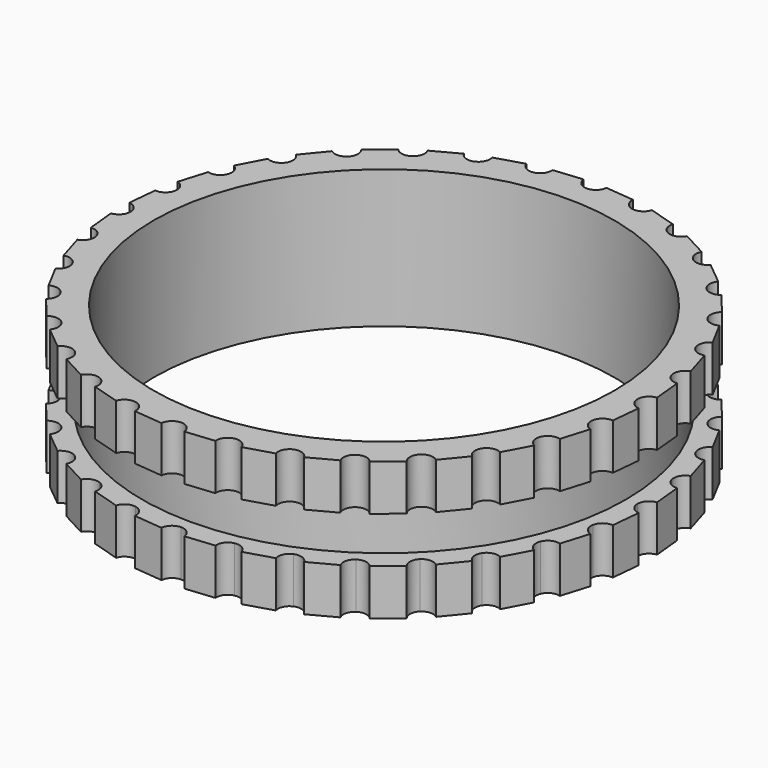
from build123d import *

# Parameters (mm, degrees)
F0_R      = 52.5
F1_DEPTH  = 10
F0_R_2    = 50
F2_DEPTH  = 30
F3_START  = 10
F1_FACE_R = 52.5
F3_DEPTH  = 10


with BuildPart() as f1:
    # F0 (on Top) → F1 (new body)
    with BuildSketch(Plane.XY):
        with BuildLine():
            ThreePointArc((53.9431904426, -10.729967608), (54.7351599721, -5.3909426659), (55, 0))
            ThreePointArc((55, 0), (54.735159954, 5.3909428496), (53.9431903706, 10.7299679701))
            ThreePointArc((53.9431903706, 10.7299679701), (52.6317184315, 15.9656573605), (50.8133743001, 21.0475887512))
            ThreePointArc((50.8133743001, 21.0475887512), (48.5056695344, 25.9268205343), (45.7308286481, 30.5563628588))
            ThreePointArc((45.7308286481, 30.5563628588), (42.5155748954, 34.8916306772), (38.8908729134, 38.8908730171))
            ThreePointArc((38.8908729134, 38.8908730171), (34.8916305615, 42.5155749904), (30.5563627318, 45.730828733))
            ThreePointArc((30.5563627318, 45.730828733), (25.9268204669, 48.5056695704), (21.0475887512, 50.8133743001))
            ThreePointArc((21.0475887512, 50.8133743001), (15.9656572029, 52.6317184793), (10.7299676471, 53.9431904349))
            ThreePointArc((10.7299676471, 53.9431904349), (5.3909426791, 54.7351599708), (-1.33e-08, 55))
            ThreePointArc((-1.33e-08, 55), (-5.390942792, 54.7351599597), (-10.7299678433, 53.9431903958))
            ThreePointArc((-10.7299678433, 53.9431903958), (-15.9656573064, 52.6317184479), (-21.0475887661, 50.8133742939))
            ThreePointArc((-21.0475887661, 50.8133742939), (-25.9268205052, 48.50566955), (-30.5563627905, 45.7308286937))
            ThreePointArc((-30.5563627905, 45.7308286937), (-34.8916306171, 42.5155749447), (-38.8908729653, 38.8908729653))
            ThreePointArc((-38.8908729653, 38.8908729653), (-42.5155749104, 34.8916306589), (-45.7308286337, 30.5563628803))
            ThreePointArc((-45.7308286337, 30.5563628803), (-48.5056695222, 25.9268205572), (-50.8133742901, 21.0475887753))
            ThreePointArc((-50.8133742901, 21.0475887753), (-52.6317184495, 15.965657301), (-53.9431904, 10.7299678226))
            ThreePointArc((-53.9431904, 10.7299678226), (-54.7351599614, 5.3909427748), (-55, 0))
            ThreePointArc((-55, 0), (-54.7351599769, -5.3909426178), (-53.9431904615, -10.7299675131))
            ThreePointArc((-53.9431904615, -10.7299675131), (-52.6317185305, -15.9656570341), (-50.8133743828, -21.0475885515))
            ThreePointArc((-50.8133743828, -21.0475885515), (-48.5056696434, -25.9268203304), (-45.7308287849, -30.5563626541))
            ThreePointArc((-45.7308287849, -30.5563626541), (-42.5155749833, -34.89163057), (-38.8908729354, -38.8908729951))
            ThreePointArc((-38.8908729354, -38.8908729951), (-34.8916306387, -42.515574927), (-30.556362872, -45.7308286393))
            ThreePointArc((-30.556362872, -45.7308286393), (-25.9268206274, -48.5056694847), (-21.0475889316, -50.8133742254))
            ThreePointArc((-21.0475889316, -50.8133742254), (-15.9656573974, -52.6317184203), (-10.7299678542, -53.9431903937))
            ThreePointArc((-10.7299678542, -53.9431903937), (-5.3909428402, -54.735159955), (-9.92e-08, -55))
            ThreePointArc((-9.92e-08, -55), (5.3909427125, -54.7351599675), (10.729967797, -53.9431904051))
            ThreePointArc((10.729967797, -53.9431904051), (15.9656573819, -52.6317184249), (21.0475889557, -50.8133742154))
            ThreePointArc((21.0475889557, -50.8133742154), (25.9268205116, -48.5056695466), (30.5563626319, -45.7308287997))
            ThreePointArc((30.5563626319, -45.7308287997), (34.8916305761, -42.5155749784), (38.8908730251, -38.8908729054))
            ThreePointArc((38.8908730251, -38.8908729054), (42.5155749025, -34.8916306685), (45.7308285728, -30.5563629714))
            ThreePointArc((45.7308285728, -30.5563629714), (48.5056694342, -25.9268207218), (50.8133741892, -21.0475890189))
            ThreePointArc((50.8133741892, -21.0475890189), (52.631718443, -15.9656573225), (53.9431904426, -10.729967608))
        make_face()
        Circle(F0_R, mode=Mode.SUBTRACT)
        with BuildLine():
            ThreePointArc((53.9431903706, 10.7299679701), (54.735159954, 5.3909428496), (55, 0))
            ThreePointArc((55, 0), (55.6476221866, 1.6788973871), (57.2549571492, 2.4879618167))
            Line((57.2549571492, 2.4879618167), (56.640196474, 8.7297316992))
            ThreePointArc((56.640196474, 8.7297316992), (54.9059052558, 9.2096747659), (53.9431903706, 10.7299679701))
        make_face()
        with BuildLine():
            ThreePointArc((50.8133743001, 21.0475887512), (52.6317184315, 15.9656573605), (53.9431903706, 10.7299679701))
            ThreePointArc((53.9431903706, 10.7299679701), (54.2508321661, 12.5029504898), (55.66944193, 13.6100443553))
            Line((55.66944193, 13.6100443553), (53.8487848125, 19.6119465217))
            ThreePointArc((53.8487848125, 19.6119465217), (52.0541854, 19.7443241215), (50.8133743001, 21.0475887512))
        make_face()
        with BuildLine():
            ThreePointArc((45.7308286481, 30.5563628588), (48.5056695344, 25.9268205343), (50.8133743001, 21.0475887512))
            ThreePointArc((50.8133743001, 21.0475887512), (50.7692129512, 22.8465219797), (51.9445812773, 24.2091005219))
            Line((51.9445812773, 24.2091005219), (48.9879945495, 29.7404852378))
            ThreePointArc((48.9879945495, 29.7404852378), (47.2020522327, 29.5202102719), (45.7308286481, 30.5563628588))
        make_face()
        with BuildLine():
            ThreePointArc((38.8908729134, 38.8908730171), (42.5155748954, 34.8916306772), (45.7308286481, 30.5563628588))
            ThreePointArc((45.7308286481, 30.5563628588), (45.3365614363, 32.3121146102), (46.223519497, 33.877814532))
            Line((46.223519497, 33.877814532), (42.2446231286, 38.7261137848))
            ThreePointArc((42.2446231286, 38.7261137848), (40.5359706958, 38.1616512795), (38.8908729134, 38.8908730171))
        make_face()
        with BuildLine():
            ThreePointArc((30.5563627318, 45.730828733), (34.8916305615, 42.5155749904), (38.8908729134, 38.8908730171))
            ThreePointArc((38.8908729134, 38.8908730171), (38.1616512759, 40.535970769), (38.7261137848, 42.2446231286))
            Line((38.7261137848, 42.2446231286), (33.877814532, 46.223519497))
            ThreePointArc((33.877814532, 46.223519497), (32.3121145346, 45.336561425), (30.5563627318, 45.730828733))
        make_face()
        with BuildLine():
            ThreePointArc((21.0475887512, 50.8133743001), (25.9268204669, 48.5056695704), (30.5563627318, 45.730828733))
            ThreePointArc((30.5563627318, 45.730828733), (29.5202102533, 47.2020523068), (29.7404852378, 48.9879945495))
            Line((29.7404852378, 48.9879945495), (24.2091005219, 51.9445812773))
            ThreePointArc((24.2091005219, 51.9445812773), (22.8465219797, 50.7692129512), (21.0475887512, 50.8133743001))
        make_face()
        with BuildLine():
            ThreePointArc((10.7299676471, 53.9431904349), (15.9656572029, 52.6317184793), (21.0475887512, 50.8133743001))
            ThreePointArc((21.0475887512, 50.8133743001), (19.7443241215, 52.0541854), (19.6119465217, 53.8487848125))
            Line((19.6119465217, 53.8487848125), (13.6100443553, 55.66944193))
            ThreePointArc((13.6100443553, 55.66944193), (12.5029503485, 54.2508320815), (10.7299676471, 53.9431904349))
        make_face()
        with BuildLine():
            ThreePointArc((-1.33e-08, 55), (5.3909426791, 54.7351599708), (10.7299676471, 53.9431904349))
            ThreePointArc((10.7299676471, 53.9431904349), (9.2096746679, 54.9059053881), (8.7297316992, 56.640196474))
            Line((8.7297316992, 56.640196474), (2.4879618167, 57.2549571492))
            ThreePointArc((2.4879618167, 57.2549571492), (1.6788973822, 55.6476221821), (-1.33e-08, 55))
        make_face()
        with BuildLine():
            ThreePointArc((-10.7299678433, 53.9431903958), (-5.390942792, 54.7351599597), (-1.33e-08, 55))
            ThreePointArc((-1.33e-08, 55), (-1.6788973921, 55.6476221911), (-2.4879618167, 57.2549571492))
            Line((-2.4879618167, 57.2549571492), (-8.7297316992, 56.640196474))
            ThreePointArc((-8.7297316992, 56.640196474), (-8.7207048754, 56.517822809), (-8.7176935159, 56.3951536232))
            ThreePointArc((-8.7176935159, 56.3951536232), (-9.2851674254, 54.8091703606), (-10.7299678433, 53.9431903958))
        make_face()
        with BuildLine():
            ThreePointArc((-21.0475887661, 50.8133742939), (-15.9656573064, 52.6317184479), (-10.7299678433, 53.9431903958))
            ThreePointArc((-10.7299678433, 53.9431903958), (-12.5029504343, 54.2508321329), (-13.6100443553, 55.66944193))
            Line((-13.6100443553, 55.66944193), (-19.6119465217, 53.8487848125))
            ThreePointArc((-19.6119465217, 53.8487848125), (-19.5313560861, 53.4898993055), (-19.504297361, 53.1230731194))
            ThreePointArc((-19.504297361, 53.1230731194), (-19.925623326, 51.7341475432), (-21.0475887661, 50.8133742939))
        make_face()
        with BuildLine():
            ThreePointArc((-30.5563627905, 45.7308286937), (-25.9268205052, 48.50566955), (-21.0475887661, 50.8133742939))
            ThreePointArc((-21.0475887661, 50.8133742939), (-22.8465219873, 50.7692129539), (-24.2091005219, 51.9445812773))
            Line((-24.2091005219, 51.9445812773), (-29.7404852378, 48.9879945495))
            ThreePointArc((-29.7404852378, 48.9879945495), (-29.5202102656, 48.4169531572), (-29.4452883986, 47.8095027074))
            ThreePointArc((-29.4452883986, 47.8095027074), (-29.7404852305, 46.6310108789), (-30.5563627905, 45.7308286937))
        make_face()
        with BuildLine():
            ThreePointArc((-38.8908729653, 38.8908729653), (-34.8916306171, 42.5155749447), (-30.5563627905, 45.7308286937))
            ThreePointArc((-30.5563627905, 45.7308286937), (-32.3121145696, 45.3365614302), (-33.877814532, 46.223519497))
            Line((-33.877814532, 46.223519497), (-38.7261137848, 42.2446231286))
            ThreePointArc((-38.7261137848, 42.2446231286), (-38.3047797553, 41.5008645517), (-38.1586399182, 40.6586399182))
            ThreePointArc((-38.1586399182, 40.6586399182), (-38.3489410869, 39.7019313373), (-38.8908729653, 38.8908729653))
        make_face()
        with BuildLine():
            ThreePointArc((-45.7308286337, 30.5563628803), (-42.5155749104, 34.8916306589), (-38.8908729653, 38.8908729653))
            ThreePointArc((-38.8908729653, 38.8908729653), (-40.5359707324, 38.1616512777), (-42.2446231286, 38.7261137848))
            Line((-42.2446231286, 38.7261137848), (-46.223519497, 33.877814532))
            ThreePointArc((-46.223519497, 33.877814532), (-45.5495294746, 33.0141761322), (-45.3095027074, 31.9452883986))
            ThreePointArc((-45.3095027074, 31.9452883986), (-45.4171518569, 31.2195767425), (-45.7308286337, 30.5563628803))
        make_face()
        with BuildLine():
            ThreePointArc((-50.8133742901, 21.0475887753), (-48.5056695222, 25.9268205572), (-45.7308286337, 30.5563628803))
            ThreePointArc((-45.7308286337, 30.5563628803), (-47.2020522202, 29.520210275), (-48.9879945495, 29.7404852378))
            Line((-48.9879945495, 29.7404852378), (-51.9445812773, 24.2091005219))
            ThreePointArc((-51.9445812773, 24.2091005219), (-50.9787515944, 23.2895542215), (-50.6230731194, 22.004297361))
            ThreePointArc((-50.6230731194, 22.004297361), (-50.6711099189, 21.5165715534), (-50.8133742901, 21.0475887753))
        make_face()
        with BuildLine():
            ThreePointArc((-53.9431904, 10.7299678226), (-52.6317184495, 15.965657301), (-50.8133742901, 21.0475887753))
            ThreePointArc((-50.8133742901, 21.0475887753), (-52.0541853882, 19.7443241271), (-53.8487848125, 19.6119465217))
            Line((-53.8487848125, 19.6119465217), (-55.66944193, 13.6100443553))
            ThreePointArc((-55.66944193, 13.6100443553), (-54.3871347945, 12.7069417772), (-53.8951536232, 11.2176935159))
            ThreePointArc((-53.8951536232, 11.2176935159), (-53.9071918009, 10.9726507218), (-53.9431904, 10.7299678226))
        make_face()
        with BuildLine():
            ThreePointArc((-55, 0), (-54.7351599614, 5.3909427748), (-53.9431904, 10.7299678226))
            ThreePointArc((-53.9431904, 10.7299678226), (-54.9059053162, 9.2096747211), (-56.640196474, 8.7297316992))
            Line((-56.640196474, 8.7297316992), (-57.2549571492, 2.4879618167))
            ThreePointArc((-57.2549571492, 2.4879618167), (-55.6476221866, 1.6788973871), (-55, 0))
        make_face()
        with BuildLine():
            ThreePointArc((-56.640196474, -8.7297316992), (-54.9059054429, -9.2096746272), (-53.9431904615, -10.7299675131))
            ThreePointArc((-53.9431904615, -10.7299675131), (-54.7351599769, -5.3909426178), (-55, 0))
            ThreePointArc((-55, 0), (-55.6476221866, -1.6788973871), (-57.2549571492, -2.4879618167))
            Line((-57.2549571492, -2.4879618167), (-56.640196474, -8.7297316992))
        make_face()
        with BuildLine():
            ThreePointArc((-53.8487848125, -19.6119465217), (-52.0541854977, -19.7443240753), (-50.8133743828, -21.0475885515))
            ThreePointArc((-50.8133743828, -21.0475885515), (-52.6317185305, -15.9656570341), (-53.9431904615, -10.7299675131))
            ThreePointArc((-53.9431904615, -10.7299675131), (-53.9071918164, -10.9726505648), (-53.8951536232, -11.2176935159))
            ThreePointArc((-53.8951536232, -11.2176935159), (-54.3871347945, -12.7069417772), (-55.66944193, -13.6100443553))
            Line((-55.66944193, -13.6100443553), (-53.8487848125, -19.6119465217))
        make_face()
        with BuildLine():
            ThreePointArc((-48.9879945495, -29.7404852378), (-47.2020523521, -29.520210242), (-45.7308287849, -30.5563626541))
            ThreePointArc((-45.7308287849, -30.5563626541), (-48.5056696434, -25.9268203304), (-50.8133743828, -21.0475885515))
            ThreePointArc((-50.8133743828, -21.0475885515), (-50.6711099425, -21.5165714346), (-50.6230731194, -22.004297361))
            ThreePointArc((-50.6230731194, -22.004297361), (-50.9787515944, -23.2895542215), (-51.9445812773, -24.2091005219))
            Line((-51.9445812773, -24.2091005219), (-48.9879945495, -29.7404852378))
        make_face()
        with BuildLine():
            ThreePointArc((-42.2446231286, -38.7261137848), (-40.5359707113, -38.1616512788), (-38.8908729354, -38.8908729951))
            ThreePointArc((-38.8908729354, -38.8908729951), (-42.5155749833, -34.89163057), (-45.7308287849, -30.5563626541))
            ThreePointArc((-45.7308287849, -30.5563626541), (-45.4171518963, -31.2195766123), (-45.3095027074, -31.9452883986))
            ThreePointArc((-45.3095027074, -31.9452883986), (-45.5495294746, -33.0141761322), (-46.223519497, -33.877814532))
            Line((-46.223519497, -33.877814532), (-42.2446231286, -38.7261137848))
        make_face()
        with BuildLine():
            ThreePointArc((-33.877814532, -46.223519497), (-32.312114618, -45.3365614374), (-30.556362872, -45.7308286393))
            ThreePointArc((-30.556362872, -45.7308286393), (-34.8916306387, -42.515574927), (-38.8908729354, -38.8908729951))
            ThreePointArc((-38.8908729354, -38.8908729951), (-38.3489410789, -39.7019313568), (-38.1586399182, -40.6586399182))
            ThreePointArc((-38.1586399182, -40.6586399182), (-38.3047797553, -41.5008645517), (-38.7261137848, -42.2446231286))
            Line((-38.7261137848, -42.2446231286), (-33.877814532, -46.223519497))
        make_face()
        with BuildLine():
            ThreePointArc((-24.2091005219, -51.9445812773), (-22.8465220717, -50.7692129841), (-21.0475889316, -50.8133742254))
            ThreePointArc((-21.0475889316, -50.8133742254), (-25.9268206274, -48.5056694847), (-30.556362872, -45.7308286393))
            ThreePointArc((-30.556362872, -45.7308286393), (-29.7404852536, -46.6310108357), (-29.4452883986, -47.8095027074))
            ThreePointArc((-29.4452883986, -47.8095027074), (-29.5202102656, -48.4169531572), (-29.7404852378, -48.9879945495))
            Line((-29.7404852378, -48.9879945495), (-24.2091005219, -51.9445812773))
        make_face()
        with BuildLine():
            ThreePointArc((-13.6100443553, -55.66944193), (-12.5029504391, -54.2508321357), (-10.7299678542, -53.9431903937))
            ThreePointArc((-10.7299678542, -53.9431903937), (-15.9656573974, -52.6317184203), (-21.0475889316, -50.8133742254))
            ThreePointArc((-21.0475889316, -50.8133742254), (-19.9256233758, -51.7341474687), (-19.504297361, -53.1230731194))
            ThreePointArc((-19.504297361, -53.1230731194), (-19.5313560861, -53.4898993055), (-19.6119465217, -53.8487848125))
            Line((-19.6119465217, -53.8487848125), (-13.6100443553, -55.66944193))
        make_face()
        with BuildLine():
            ThreePointArc((-2.4879618167, -57.2549571492), (-1.6788974239, -55.6476222199), (-9.92e-08, -55))
            ThreePointArc((-9.92e-08, -55), (-5.3909428402, -54.735159955), (-10.7299678542, -53.9431903937))
            ThreePointArc((-10.7299678542, -53.9431903937), (-9.2851674289, -54.8091703563), (-8.7176935159, -56.3951536232))
            ThreePointArc((-8.7176935159, -56.3951536232), (-8.7207048754, -56.517822809), (-8.7297316992, -56.640196474))
            Line((-8.7297316992, -56.640196474), (-2.4879618167, -57.2549571492))
        make_face()
        with BuildLine():
            ThreePointArc((8.7297316992, -56.640196474), (9.2096747134, -54.9059053267), (10.729967797, -53.9431904051))
            ThreePointArc((10.729967797, -53.9431904051), (5.3909427125, -54.7351599675), (-9.92e-08, -55))
            ThreePointArc((-9.92e-08, -55), (1.6788973504, -55.6476221533), (2.4879618167, -57.2549571492))
            Line((2.4879618167, -57.2549571492), (8.7297316992, -56.640196474))
        make_face()
        with BuildLine():
            ThreePointArc((19.6119465217, -53.8487848125), (19.7443241688, -52.0541852999), (21.0475889557, -50.8133742154))
            ThreePointArc((21.0475889557, -50.8133742154), (15.9656573819, -52.6317184249), (10.729967797, -53.9431904051))
            ThreePointArc((10.729967797, -53.9431904051), (12.502950414, -54.2508321207), (13.6100443553, -55.66944193))
            Line((13.6100443553, -55.66944193), (19.6119465217, -53.8487848125))
        make_face()
        with BuildLine():
            ThreePointArc((29.7404852378, -48.9879945495), (29.5202102387, -47.2020523651), (30.5563626319, -45.7308287997))
            ThreePointArc((30.5563626319, -45.7308287997), (25.9268205116, -48.5056695466), (21.0475889557, -50.8133742154))
            ThreePointArc((21.0475889557, -50.8133742154), (22.846522084, -50.7692129885), (24.2091005219, -51.9445812773))
            Line((24.2091005219, -51.9445812773), (29.7404852378, -48.9879945495))
        make_face()
        with BuildLine():
            ThreePointArc((38.7261137848, -42.2446231286), (38.1616512798, -40.5359706902), (38.8908730251, -38.8908729054))
            ThreePointArc((38.8908730251, -38.8908729054), (34.8916305761, -42.5155749784), (30.5563626319, -45.7308287997))
            ThreePointArc((30.5563626319, -45.7308287997), (32.3121144752, -45.3365614162), (33.877814532, -46.223519497))
            Line((33.877814532, -46.223519497), (38.7261137848, -42.2446231286))
        make_face()
        with BuildLine():
            ThreePointArc((46.223519497, -33.877814532), (45.3365614462, -32.3121146772), (45.7308285728, -30.5563629714))
            ThreePointArc((45.7308285728, -30.5563629714), (42.5155749025, -34.8916306685), (38.8908730251, -38.8908729054))
            ThreePointArc((38.8908730251, -38.8908729054), (40.5359707747, -38.1616512756), (42.2446231286, -38.7261137848))
            Line((42.2446231286, -38.7261137848), (46.223519497, -33.877814532))
        make_face()
        with BuildLine():
            ThreePointArc((51.9445812773, -24.2091005219), (50.769213, -22.8465221162), (50.8133741892, -21.0475890189))
            ThreePointArc((50.8133741892, -21.0475890189), (48.5056694342, -25.9268207218), (45.7308285728, -30.5563629714))
            ThreePointArc((45.7308285728, -30.5563629714), (47.202052167, -29.5202102883), (48.9879945495, -29.7404852378))
            Line((48.9879945495, -29.7404852378), (51.9445812773, -24.2091005219))
        make_face()
        with BuildLine():
            ThreePointArc((55.66944193, -13.6100443553), (54.2508320712, -12.5029503314), (53.9431904426, -10.729967608))
            ThreePointArc((53.9431904426, -10.729967608), (52.631718443, -15.9656573225), (50.8133741892, -21.0475890189))
            ThreePointArc((50.8133741892, -21.0475890189), (52.054185269, -19.7443241834), (53.8487848125, -19.6119465217))
            Line((53.8487848125, -19.6119465217), (55.66944193, -13.6100443553))
        make_face()
        with BuildLine():
            ThreePointArc((57.2549571492, -2.4879618167), (55.6476221866, -1.6788973871), (55, 0))
            ThreePointArc((55, 0), (54.7351599721, -5.3909426659), (53.9431904426, -10.729967608))
            ThreePointArc((53.9431904426, -10.729967608), (54.9059054041, -9.209674656), (56.640196474, -8.7297316992))
            Line((56.640196474, -8.7297316992), (57.2549571492, -2.4879618167))
        make_face()
    extrude(amount=F1_DEPTH)

    # F0 (on Top) → F2 (join)
    with BuildSketch(Plane.XY):
        Circle(F0_R)
        Circle(F0_R_2, mode=Mode.SUBTRACT)
    extrude(amount=F2_DEPTH)

    # F1_face (on face) → F3 (join)
    with BuildSketch(Plane.XY.offset(10).offset(F3_START)):
        with BuildLine():
            Line((57.2549571492, 2.4879618167), (56.640196474, 8.7297316992))
            ThreePointArc((56.640196474, 8.7297316992), (53.9431904222, 10.7299677109), (55.66944193, 13.6100443553))
            Line((55.66944193, 13.6100443553), (53.8487848125, 19.6119465217))
            ThreePointArc((53.8487848125, 19.6119465217), (50.8133742881, 21.0475887801), (51.9445812773, 24.2091005219))
            Line((51.9445812773, 24.2091005219), (48.9879945495, 29.7404852378))
            ThreePointArc((48.9879945495, 29.7404852378), (45.7308286766, 30.5563628161), (46.223519497, 33.877814532))
            Line((46.223519497, 33.877814532), (42.2446231286, 38.7261137848))
            ThreePointArc((42.2446231286, 38.7261137848), (38.8908729653, 38.8908729653), (38.7261137848, 42.2446231286))
            Line((38.7261137848, 42.2446231286), (33.877814532, 46.223519497))
            ThreePointArc((33.877814532, 46.223519497), (30.5563628161, 45.7308286766), (29.7404852378, 48.9879945495))
            Line((29.7404852378, 48.9879945495), (24.2091005219, 51.9445812773))
            ThreePointArc((24.2091005219, 51.9445812773), (21.0475887801, 50.8133742881), (19.6119465217, 53.8487848125))
            Line((19.6119465217, 53.8487848125), (13.6100443553, 55.66944193))
            ThreePointArc((13.6100443553, 55.66944193), (10.7299677109, 53.9431904222), (8.7297316992, 56.640196474))
            Line((8.7297316992, 56.640196474), (2.4879618167, 57.2549571492))
            ThreePointArc((2.4879618167, 57.2549571492), (0, 55), (-2.4879618167, 57.2549571492))
            Line((-2.4879618167, 57.2549571492), (-8.7297316992, 56.640196474))
            ThreePointArc((-8.7297316992, 56.640196474), (-10.7299677109, 53.9431904222), (-13.6100443553, 55.66944193))
            Line((-13.6100443553, 55.66944193), (-19.6119465217, 53.8487848125))
            ThreePointArc((-19.6119465217, 53.8487848125), (-21.0475887801, 50.8133742881), (-24.2091005219, 51.9445812773))
            Line((-24.2091005219, 51.9445812773), (-29.7404852378, 48.9879945495))
            ThreePointArc((-29.7404852378, 48.9879945495), (-30.5563628161, 45.7308286766), (-33.877814532, 46.223519497))
            Line((-33.877814532, 46.223519497), (-38.7261137848, 42.2446231286))
            ThreePointArc((-38.7261137848, 42.2446231286), (-38.8908729653, 38.8908729653), (-42.2446231286, 38.7261137848))
            Line((-42.2446231286, 38.7261137848), (-46.223519497, 33.877814532))
            ThreePointArc((-46.223519497, 33.877814532), (-45.7308286766, 30.5563628161), (-48.9879945495, 29.7404852378))
            Line((-48.9879945495, 29.7404852378), (-51.9445812773, 24.2091005219))
            ThreePointArc((-51.9445812773, 24.2091005219), (-50.8133742881, 21.0475887801), (-53.8487848125, 19.6119465217))
            Line((-53.8487848125, 19.6119465217), (-55.66944193, 13.6100443553))
            ThreePointArc((-55.66944193, 13.6100443553), (-53.9431904222, 10.7299677109), (-56.640196474, 8.7297316992))
            Line((-56.640196474, 8.7297316992), (-57.2549571492, 2.4879618167))
            ThreePointArc((-57.2549571492, 2.4879618167), (-55, 0), (-57.2549571492, -2.4879618167))
            Line((-57.2549571492, -2.4879618167), (-56.640196474, -8.7297316992))
            ThreePointArc((-56.640196474, -8.7297316992), (-53.9431904222, -10.7299677109), (-55.66944193, -13.6100443553))
            Line((-55.66944193, -13.6100443553), (-53.8487848125, -19.6119465217))
            ThreePointArc((-53.8487848125, -19.6119465217), (-50.8133742881, -21.0475887801), (-51.9445812773, -24.2091005219))
            Line((-51.9445812773, -24.2091005219), (-48.9879945495, -29.7404852378))
            ThreePointArc((-48.9879945495, -29.7404852378), (-45.7308286766, -30.5563628161), (-46.223519497, -33.877814532))
            Line((-46.223519497, -33.877814532), (-42.2446231286, -38.7261137848))
            ThreePointArc((-42.2446231286, -38.7261137848), (-38.8908729653, -38.8908729653), (-38.7261137848, -42.2446231286))
            Line((-38.7261137848, -42.2446231286), (-33.877814532, -46.223519497))
            ThreePointArc((-33.877814532, -46.223519497), (-30.5563628161, -45.7308286766), (-29.7404852378, -48.9879945495))
            Line((-29.7404852378, -48.9879945495), (-24.2091005219, -51.9445812773))
            ThreePointArc((-24.2091005219, -51.9445812773), (-21.0475887801, -50.8133742881), (-19.6119465217, -53.8487848125))
            Line((-19.6119465217, -53.8487848125), (-13.6100443553, -55.66944193))
            ThreePointArc((-13.6100443553, -55.66944193), (-10.7299677109, -53.9431904222), (-8.7297316992, -56.640196474))
            Line((-8.7297316992, -56.640196474), (-2.4879618167, -57.2549571492))
            ThreePointArc((-2.4879618167, -57.2549571492), (0, -55), (2.4879618167, -57.2549571492))
            Line((2.4879618167, -57.2549571492), (8.7297316992, -56.640196474))
            ThreePointArc((8.7297316992, -56.640196474), (10.7299677109, -53.9431904222), (13.6100443553, -55.66944193))
            Line((13.6100443553, -55.66944193), (19.6119465217, -53.8487848125))
            ThreePointArc((19.6119465217, -53.8487848125), (21.0475887801, -50.8133742881), (24.2091005219, -51.9445812773))
            Line((24.2091005219, -51.9445812773), (29.7404852378, -48.9879945495))
            ThreePointArc((29.7404852378, -48.9879945495), (30.5563628161, -45.7308286766), (33.877814532, -46.223519497))
            Line((33.877814532, -46.223519497), (38.7261137848, -42.2446231286))
            ThreePointArc((38.7261137848, -42.2446231286), (38.8908729653, -38.8908729653), (42.2446231286, -38.7261137848))
            Line((42.2446231286, -38.7261137848), (46.223519497, -33.877814532))
            ThreePointArc((46.223519497, -33.877814532), (45.7308286766, -30.5563628161), (48.9879945495, -29.7404852378))
            Line((48.9879945495, -29.7404852378), (51.9445812773, -24.2091005219))
            ThreePointArc((51.9445812773, -24.2091005219), (50.8133742881, -21.0475887801), (53.8487848125, -19.6119465217))
            Line((53.8487848125, -19.6119465217), (55.66944193, -13.6100443553))
            ThreePointArc((55.66944193, -13.6100443553), (53.9431904222, -10.7299677109), (56.640196474, -8.7297316992))
            Line((56.640196474, -8.7297316992), (57.2549571492, -2.4879618167))
            ThreePointArc((57.2549571492, -2.4879618167), (55, 0), (57.2549571492, 2.4879618167))
        make_face()
        Circle(F1_FACE_R, mode=Mode.SUBTRACT)
    extrude(amount=F3_DEPTH)


solid = f1.part
